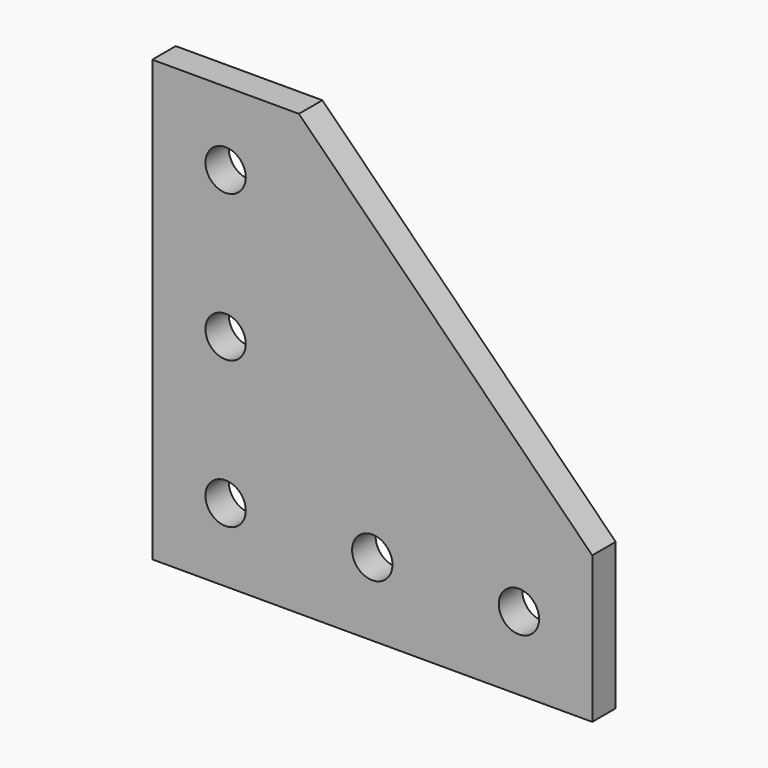
from build123d import *

# Parameters (mm, degrees)
F0_R     = 2.75
F1_DEPTH = 4


with BuildPart() as f1:
    # F0 (on Front) → F1 (new body)
    with BuildSketch(Plane.XZ):
        Polygon((-15.552693, 34.197687), (-35.552693, 34.197687), (-35.552693, -25.802313), (24.447307, -25.802313), (24.447307, -5.802313), align=None)
        with Locations((-25.552693, -15.802313)):
            Circle(F0_R, mode=Mode.SUBTRACT)
        with Locations((-5.552693, -15.802313)):
            Circle(F0_R, mode=Mode.SUBTRACT)
        with Locations((-25.552693, 4.197687)):
            Circle(F0_R, mode=Mode.SUBTRACT)
        with Locations((14.447307, -15.802313)):
            Circle(F0_R, mode=Mode.SUBTRACT)
        with Locations((-25.552693, 24.197687)):
            Circle(F0_R, mode=Mode.SUBTRACT)
    extrude(amount=F1_DEPTH)


solid = f1.part
